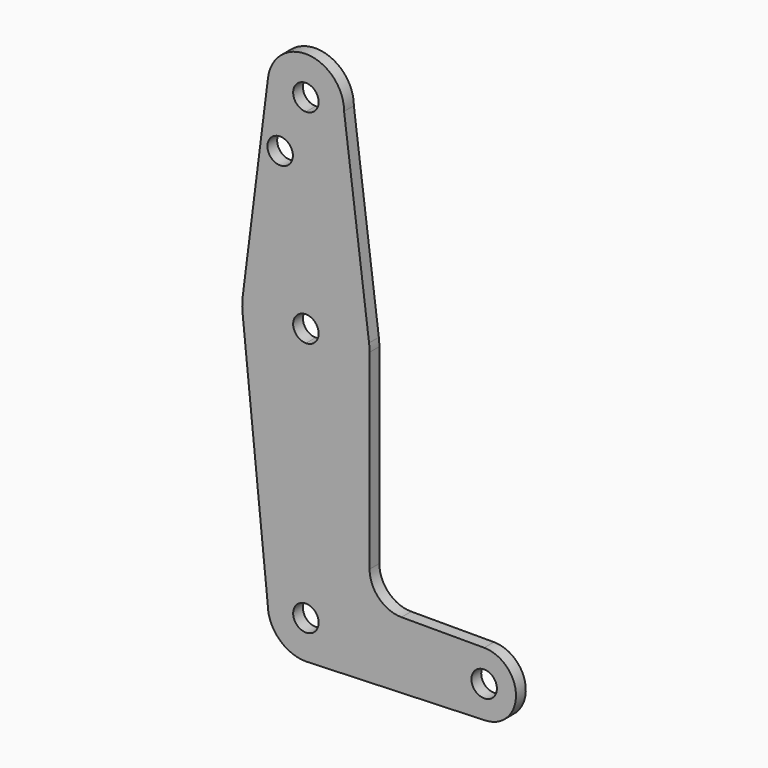
from build123d import *

# Parameters (mm, degrees)
F0_R     = 3.175
F1_DEPTH = 3.048


with BuildPart() as f1:
    # F0 (on Front) → F1 (new body)
    with BuildSketch(Plane.XZ):
        with BuildLine():
            ThreePointArc((3.175, 0), (-2.2450640303, -2.2450640303), (0, 3.175))
            Line((0, 3.175), (0, 9.525))
            ThreePointArc((0, 9.525), (-6.7351920908, 6.7351920908), (-9.525, 0))
            ThreePointArc((-9.525, 0), (-6.7351920908, -6.7351920908), (0, -9.525))
            Line((0, -9.525), (0.6773435479, -9.500885786))
            ThreePointArc((0.6773435479, -9.500885786), (6.9705567315, -6.4912990883), (9.525, 0))
            Line((9.525, 0), (3.175, 0))
        make_face()
        with BuildLine():
            ThreePointArc((-9.525, 0), (-6.7351920908, 6.7351920908), (0, 9.525))
            Line((0, 9.525), (0, 47.625))
            ThreePointArc((0, 47.625), (-10.644756084, 51.722700101), (-15.7942028036, 61.9003804205))
            Line((-15.7942028036, 61.9003804205), (-9.525, 0))
        make_face()
        with BuildLine():
            Line((0, 47.625), (0, 9.525))
            ThreePointArc((0, 9.525), (6.7351920908, 6.7351920908), (9.525, 0))
            Line((9.525, 0), (36.5125, 0))
            ThreePointArc((36.5125, 0), (38.8373399243, 5.6126600757), (44.45, 7.9375))
            Line((44.45, 7.9375), (23.8252, 7.9375))
            ThreePointArc((23.8252, 7.9375), (18.2035596682, 10.2660596682), (15.875, 15.8877))
            Line((15.875, 15.8877), (15.875, 63.5))
            ThreePointArc((15.875, 63.5), (11.2253201513, 52.2746798487), (0, 47.625))
        make_face()
        with BuildLine():
            Line((36.5125, 0), (9.525, 0))
            ThreePointArc((9.525, 0), (6.9705567315, -6.4912990883), (0.6773435479, -9.500885786))
            Line((0.6773435479, -9.500885786), (44.7324052746, -7.9324746146))
            ThreePointArc((44.7324052746, -7.9324746146), (38.9380895153, -5.7116327839), (36.5125, 0))
        make_face()
        with BuildLine():
            ThreePointArc((-15.7942028036, 61.9003804205), (-10.644756084, 51.722700101), (0, 47.625))
            Line((0, 47.625), (0, 60.325))
            ThreePointArc((0, 60.325), (-3.175, 63.5), (0, 66.675))
            Line((0, 66.675), (0, 79.375))
            ThreePointArc((0, 79.375), (-10.5003255158, 75.40625), (-15.7504882737, 65.484375))
            ThreePointArc((-15.7504882737, 65.484375), (-15.8738192656, 63.6936154008), (-15.7942028036, 61.9003804205))
        make_face()
        with BuildLine():
            Line((0, 60.325), (0, 47.625))
            ThreePointArc((0, 47.625), (11.2253201513, 52.2746798487), (15.875, 63.5))
            ThreePointArc((15.875, 63.5), (15.8430821396, 64.5061676396), (15.7474569047, 65.5082893304))
            ThreePointArc((15.7474569047, 65.5082893304), (10.4912828548, 75.4142187767), (0, 79.375))
            Line((0, 79.375), (0, 66.675))
            ThreePointArc((0, 66.675), (2.2450640303, 65.7450640303), (3.175, 63.5))
            ThreePointArc((3.175, 63.5), (2.2450640303, 61.2549359697), (0, 60.325))
        make_face()
        with BuildLine():
            ThreePointArc((44.45, 7.9375), (38.8373399243, 5.6126600757), (36.5125, 0))
            ThreePointArc((36.5125, 0), (38.9380895153, -5.7116327839), (44.7324052746, -7.9324746146))
            ThreePointArc((44.7324052746, -7.9324746146), (50.1616327839, -5.5119104847), (52.3875, 0))
            ThreePointArc((52.3875, 0), (50.0626600757, 5.6126600757), (44.45, 7.9375))
        make_face()
        with BuildLine():
            ThreePointArc((47.625, 0), (44.45, -3.175), (41.275, 0))
            ThreePointArc((41.275, 0), (44.45, 3.175), (47.625, 0))
        make_face(mode=Mode.SUBTRACT)
        with BuildLine():
            ThreePointArc((0, -9.525), (0.3388863295, -9.5189695375), (0.6773435479, -9.500885786))
            Line((0.6773435479, -9.500885786), (0, -9.525))
        make_face()
        with BuildLine():
            Line((-9.4502929642, 115.490625), (-15.7504882737, 65.484375))
            ThreePointArc((-15.7504882737, 65.484375), (-10.5003255158, 75.40625), (0, 79.375))
            Line((0, 79.375), (0, 104.775))
            ThreePointArc((0, 104.775), (-7.14375, 107.9998046905), (-9.4502929642, 115.490625))
        make_face()
        with Locations((-6.4251534641, 100.4420816898)):
            Circle(F0_R, mode=Mode.SUBTRACT)
        with BuildLine():
            ThreePointArc((0, 79.375), (10.4912828548, 75.4142187767), (15.7474569047, 65.5082893304))
            Line((15.7474569047, 65.5082893304), (9.525, 114.3))
            ThreePointArc((9.525, 114.3), (6.7351920908, 107.5648079092), (0, 104.775))
            Line((0, 104.775), (0, 79.375))
        make_face()
        with BuildLine():
            ThreePointArc((9.525, 114.3), (0.596483242, 123.8063048942), (-9.4502929642, 115.490625))
            ThreePointArc((-9.4502929642, 115.490625), (-7.14375, 107.9998046905), (0, 104.775))
            ThreePointArc((0, 104.775), (6.7351920908, 107.5648079092), (9.525, 114.3))
        make_face()
        with BuildLine():
            ThreePointArc((3.175, 114.3), (2.2450640303, 112.0549359697), (0, 111.125))
            ThreePointArc((0, 111.125), (-2.2450640303, 116.5450640303), (3.175, 114.3))
        make_face(mode=Mode.SUBTRACT)
        with BuildLine():
            Line((0, 9.525), (0, 3.175))
            ThreePointArc((0, 3.175), (2.2450640303, 2.2450640303), (3.175, 0))
            Line((3.175, 0), (9.525, 0))
            ThreePointArc((9.525, 0), (6.7351920908, 6.7351920908), (0, 9.525))
        make_face()
    extrude(amount=F1_DEPTH)


solid = f1.part
